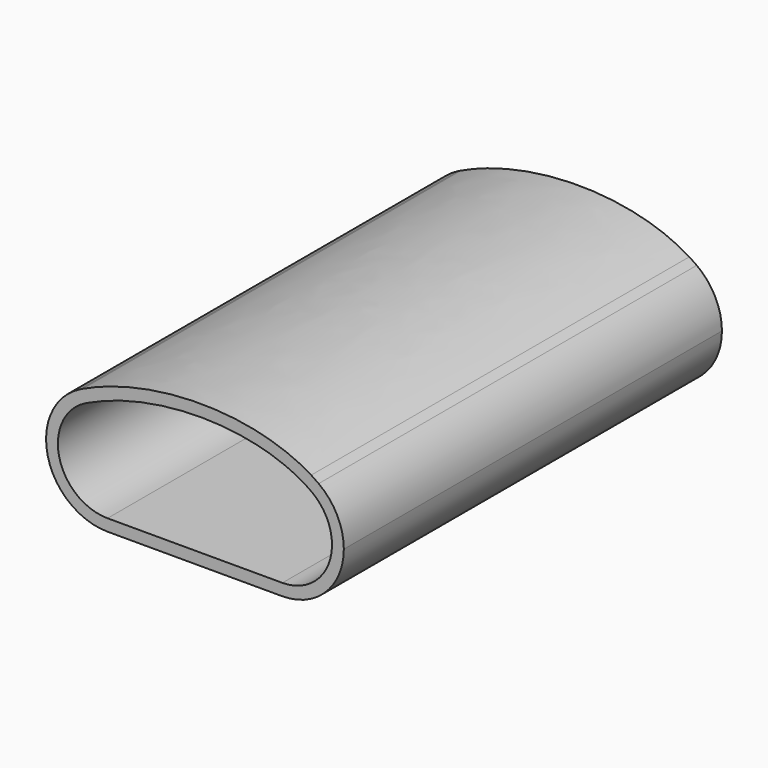
from build123d import *

# Parameters (mm, degrees)
F1_DEPTH = 100
F2_T     = -2.5


with BuildPart() as f1:
    # F0 (on Front) → F1 (new body)
    with BuildSketch(Plane.XZ):
        with BuildLine():
            ThreePointArc((-21.5704036325, 11.6423378854), (-21.0157769425, 11.9017842395), (-20.4495487389, 12.1348267193))
            add(Edge.make_bspline(
                [(-20.4495487389, 12.1348267193), (-20.7354247829, 12.0249682095), (-21.0170998309, 11.912417923)],
                knots=[5.3666190149, 5.3666190149, 5.3666190149, 5.3855482998, 5.3855482998, 5.3855482998], degree=2, weights=[1, 0.9999552106, 1]))
            add(Edge.make_bspline(
                [(-21.0170998309, 11.912417923), (-21.2957650029, 11.7787830746), (-21.5704036325, 11.6423378854)],
                knots=[5.2932318194, 5.2932318194, 5.2932318194, 5.3126783156, 5.3126783156, 5.3126783156], degree=2, weights=[1, 0.9999527296, 1]))
        make_face()
        with BuildLine():
            add(Edge.make_bspline(
                [(27.3112321307, 11.5555059362), (26.6080930604, 11.8538648557), (25.8769684943, 12.1348266836)],
                knots=[4.0097555297, 4.0097555297, 4.0097555297, 4.0581589427, 4.0581589427, 4.0581589427], degree=2, weights=[1, 0.999707153, 1]))
            ThreePointArc((25.8769684943, 12.1348266836), (27.4397961614, 11.4120922275), (28.8933992862, 10.4891548695))
            add(Edge.make_bspline(
                [(28.8933992862, 10.4891548695), (28.1396051066, 11.0410492102), (27.3112321307, 11.5555059362)],
                knots=[3.7111855249, 3.7111855249, 3.7111855249, 3.7840070296, 3.7840070296, 3.7840070296], degree=2, weights=[1, 0.9993372018, 1]))
        make_face()
        with BuildLine():
            add(Edge.make_bspline(
                [(-20.4495487389, 12.1348267193), (-20.7354247829, 12.0249682095), (-21.0170998309, 11.912417923)],
                knots=[5.3666190149, 5.3666190149, 5.3666190149, 5.3855482998, 5.3855482998, 5.3855482998], degree=2, weights=[1, 0.9999552106, 1]))
            add(Edge.make_bspline(
                [(25.8769684943, 12.1348266836), (2.713709905, 21.0361709622), (-20.4495487389, 12.1348267193)],
                knots=[4.0581589427, 4.0581589427, 4.0581589427, 5.3666190149, 5.3666190149, 5.3666190149], degree=2, weights=[1, 0.7935167236, 1]))
            add(Edge.make_bspline(
                [(27.3112321307, 11.5555059362), (26.6080930604, 11.8538648557), (25.8769684943, 12.1348266836)],
                knots=[4.0097555297, 4.0097555297, 4.0097555297, 4.0581589427, 4.0581589427, 4.0581589427], degree=2, weights=[1, 0.999707153, 1]))
            add(Edge.make_bspline(
                [(27.3112321307, 11.5555059362), (5.9292875773, 24.8346513314), (-21.0170998309, 11.912417923)],
                knots=[3.7840070296, 3.7840070296, 3.7840070296, 5.2932318194, 5.2932318194, 5.2932318194], degree=2, weights=[1, 0.7285371098, 1]))
        make_face()
        with BuildLine():
            ThreePointArc((-15.7862901688, -13), (-6.5939020133, -9.1923881554), (-2.7862901688, 0))
            ThreePointArc((-2.7862901688, 0), (-6.5939020133, 9.1923881554), (-15.7862901688, 13))
            ThreePointArc((-15.7862901688, 13), (-18.1577088, 12.7818767666), (-20.4495487389, 12.1348267193))
            ThreePointArc((-20.4495487389, 12.1348267193), (-21.0157769425, 11.9017842395), (-21.5704036325, 11.6423378854))
            ThreePointArc((-21.5704036325, 11.6423378854), (-28.4423241548, -2.9706571234), (-15.7862901688, -13))
        make_face()
        with BuildLine():
            ThreePointArc((21.2137098312, 13), (12.0213216758, 9.1923881554), (8.2137098312, 0))
            ThreePointArc((8.2137098312, 0), (12.0213216758, -9.1923881554), (21.2137098312, -13))
            ThreePointArc((21.2137098312, -13), (30.4060979867, -9.1923881554), (34.2137098312, 0))
            ThreePointArc((34.2137098312, 0), (32.8075867263, 5.8806477996), (28.8933992862, 10.4891548695))
            ThreePointArc((28.8933992862, 10.4891548695), (27.4397961614, 11.4120922275), (25.8769684943, 12.1348266836))
            ThreePointArc((25.8769684943, 12.1348266836), (23.5851285114, 12.7818767575), (21.2137098312, 13))
        make_face()
        with BuildLine():
            ThreePointArc((-20.4495487389, 12.1348267193), (-18.1577088, 12.7818767666), (-15.7862901688, 13))
            Line((-15.7862901688, 13), (2.7137098312, 13))
            Line((2.7137098312, 13), (21.2137098312, 13))
            ThreePointArc((21.2137098312, 13), (23.5851285114, 12.7818767575), (25.8769684943, 12.1348266836))
            add(Edge.make_bspline(
                [(25.8769684943, 12.1348266836), (2.713709905, 21.0361709622), (-20.4495487389, 12.1348267193)],
                knots=[4.0581589427, 4.0581589427, 4.0581589427, 5.3666190149, 5.3666190149, 5.3666190149], degree=2, weights=[1, 0.7935167236, 1]))
        make_face()
        with BuildLine():
            Line((2.7137098312, 13), (2.7137098312, 0))
            Line((2.7137098312, 0), (8.2137098312, 0))
            ThreePointArc((8.2137098312, 0), (12.0213216758, 9.1923881554), (21.2137098312, 13))
            Line((21.2137098312, 13), (2.7137098312, 13))
        make_face()
        with BuildLine():
            ThreePointArc((-15.7862901688, 13), (-6.5939020133, 9.1923881554), (-2.7862901688, 0))
            Line((-2.7862901688, 0), (2.7137098312, 0))
            Line((2.7137098312, 0), (2.7137098312, 13))
            Line((2.7137098312, 13), (-15.7862901688, 13))
        make_face()
        with BuildLine():
            Line((2.7137098312, 0), (-2.7862901688, 0))
            ThreePointArc((-2.7862901688, 0), (-6.5939020133, -9.1923881554), (-15.7862901688, -13))
            Line((-15.7862901688, -13), (2.7137098312, -13))
            Line((2.7137098312, -13), (2.7137098312, 0))
        make_face()
        with BuildLine():
            Line((8.2137098312, 0), (2.7137098312, 0))
            Line((2.7137098312, 0), (2.7137098312, -13))
            Line((2.7137098312, -13), (21.2137098312, -13))
            ThreePointArc((21.2137098312, -13), (12.0213216758, -9.1923881554), (8.2137098312, 0))
        make_face()
    extrude(amount=F1_DEPTH)

    # F2
    f2_openings = [f1.faces().sort_by_distance(p)[0] for p in [
        (2.774831, -100, 1.155058),
    ]]
    offset(amount=F2_T, openings=f2_openings, kind=Kind.INTERSECTION)


solid = f1.part
